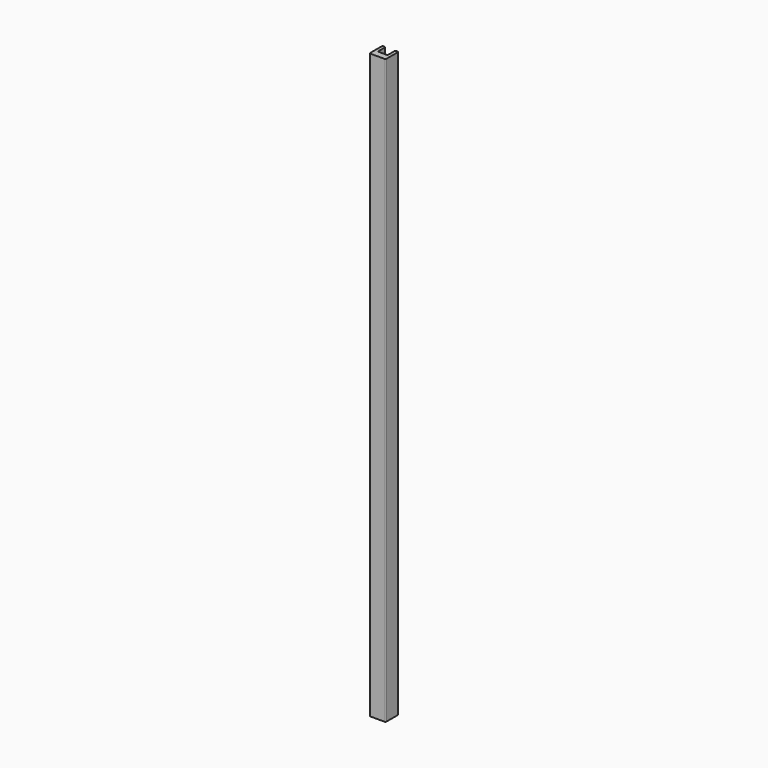
from build123d import *

# Parameters (mm, degrees)
F1_DEPTH = 1450


with BuildPart() as f1:
    # F0 (on Top) → F1 (new body)
    with BuildSketch(Plane.XY):
        with BuildLine():
            Line((-12.767138, 24), (-16.767138, 24))
            ThreePointArc((-16.767138, 24), (-18.181351, 23.414214), (-18.767138, 22))
            Line((-18.767138, 22), (-18.767138, -14))
            ThreePointArc((-18.767138, -14), (-18.181351, -15.414214), (-16.767138, -16))
            Line((-16.767138, -16), (19.232862, -16))
            ThreePointArc((19.232862, -16), (20.647076, -15.414214), (21.232862, -14))
            Line((21.232862, -14), (21.232862, 22))
            ThreePointArc((21.232862, 22), (20.647076, 23.414214), (19.232862, 24))
            Line((19.232862, 24), (15.232862, 24))
            ThreePointArc((15.232862, 24), (13.818649, 23.414214), (13.232862, 22))
            Line((13.232862, 22), (13.232862, 2))
            ThreePointArc((13.232862, 2), (12.647076, 0.585786), (11.232862, 0))
            Line((11.232862, 0), (-8.767138, 0))
            ThreePointArc((-8.767138, 0), (-10.181351, 0.585786), (-10.767138, 2))
            Line((-10.767138, 2), (-10.767138, 22))
            ThreePointArc((-10.767138, 22), (-11.352924, 23.414214), (-12.767138, 24))
        make_face()
    extrude(amount=F1_DEPTH)


solid = f1.part
